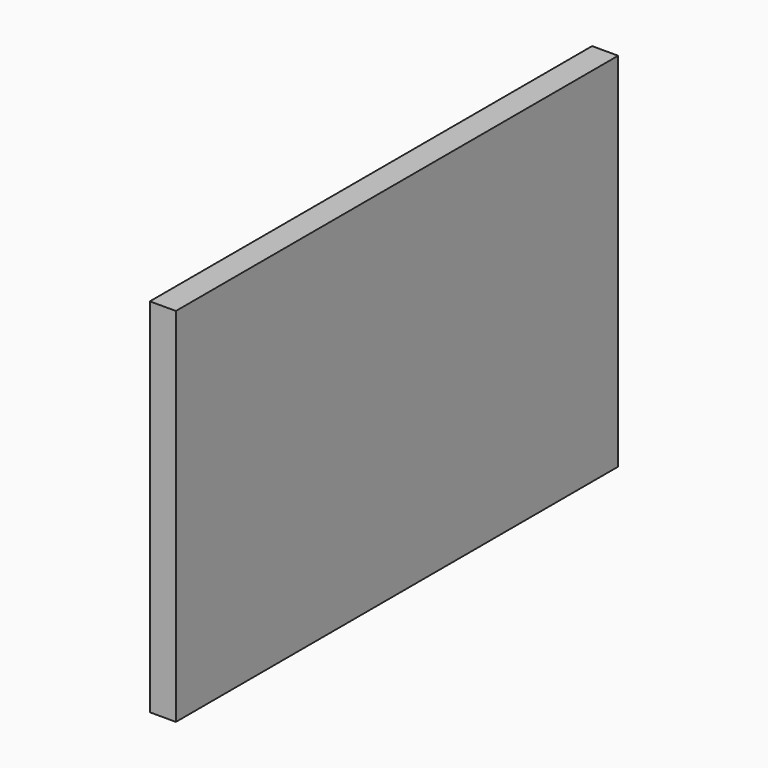
from build123d import *

# Parameters (mm, degrees)
SKETCH_W  = 382
SKETCH_H  = 250
PAD_DEPTH = 18


with BuildPart() as part:
    # Sketch → Pad (new body)
    with BuildSketch(Plane.YZ):
        with Locations((-191, 125)):
            Rectangle(SKETCH_W, SKETCH_H)
    extrude(amount=PAD_DEPTH)


solid = part.part
